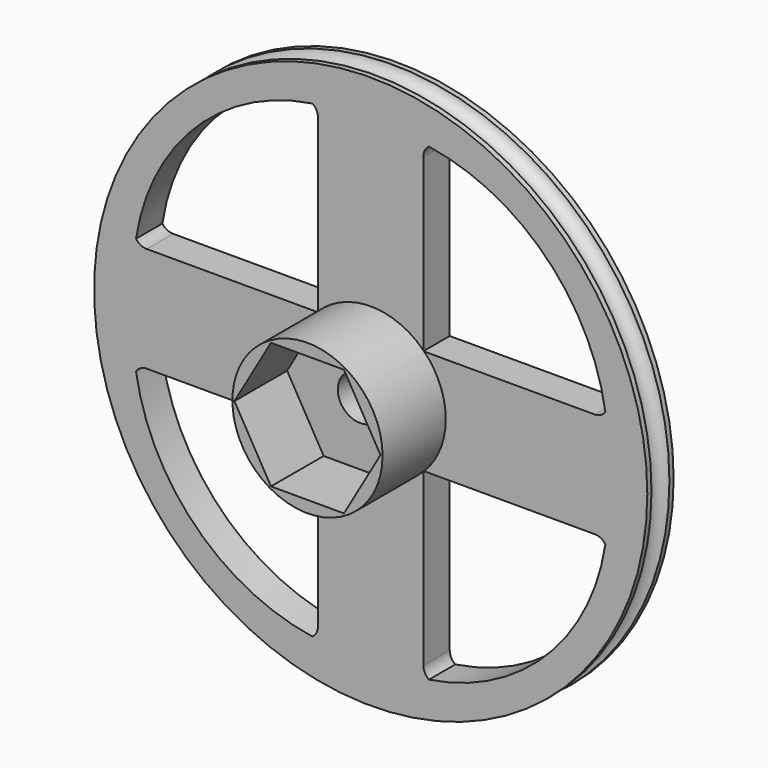
from build123d import *

# Parameters (mm, degrees)
F0_R     = 26.67
F1_DEPTH = 3.175
F3_DEPTH = 25.4
F4_R     = 7.239
F5_DEPTH = 7.62
F7_DEPTH = 6.35
F8_R     = 2.159
F9_DEPTH = 25.4


with BuildPart() as f1:
    # F0 (on Front) → F1 (new body)
    with BuildSketch(Plane.XZ):
        Circle(F0_R)
    extrude(amount=F1_DEPTH)

    # F2 (on face) → F3 (cut)
    with BuildSketch(Plane.XZ.offset(3.175)):
        with BuildLine():
            Line((-21.59, 5.08), (-5.08, 5.08))
            Line((-5.08, 5.08), (-5.08, 21.59))
            ThreePointArc((-5.08, 21.59), (-5.221742, 22.173039), (-5.61533, 22.625934))
            ThreePointArc((-5.61533, 22.625934), (-16.90841, 16.90841), (-22.625934, 5.61533))
            ThreePointArc((-22.625934, 5.61533), (-22.173039, 5.221742), (-21.59, 5.08))
        make_face()
        with BuildLine():
            ThreePointArc((-21.59, -5.08), (-22.173039, -5.221742), (-22.625934, -5.61533))
            ThreePointArc((-22.625934, -5.61533), (-16.90841, -16.90841), (-5.61533, -22.625934))
            ThreePointArc((-5.61533, -22.625934), (-5.221742, -22.173039), (-5.08, -21.59))
            Line((-5.08, -21.59), (-5.08, -5.08))
            Line((-5.08, -5.08), (-21.59, -5.08))
        make_face()
        with BuildLine():
            ThreePointArc((5.08, -21.59), (5.221742, -22.173039), (5.61533, -22.625934))
            ThreePointArc((5.61533, -22.625934), (16.90841, -16.90841), (22.625934, -5.61533))
            ThreePointArc((22.625934, -5.61533), (22.173039, -5.221742), (21.59, -5.08))
            Line((21.59, -5.08), (5.08, -5.08))
            Line((5.08, -5.08), (5.08, -21.59))
        make_face()
        with BuildLine():
            ThreePointArc((21.59, 5.08), (22.173039, 5.221742), (22.625934, 5.61533))
            ThreePointArc((22.625934, 5.61533), (16.90841, 16.90841), (5.61533, 22.625934))
            ThreePointArc((5.61533, 22.625934), (5.221742, 22.173039), (5.08, 21.59))
            Line((5.08, 21.59), (5.08, 5.08))
            Line((5.08, 5.08), (21.59, 5.08))
        make_face()
    extrude(amount=-F3_DEPTH, mode=Mode.SUBTRACT)

    # F4 (on face) → F5 (join)
    with BuildSketch(Plane.XZ.offset(3.175)):
        Circle(F4_R)
    extrude(amount=F5_DEPTH)

    # F6 (on face) → F7 (cut)
    with BuildSketch(Plane.XZ.offset(10.795)):
        Polygon((3.519527, -6.096), (7.039054, 0), (3.519527, 6.096), (-3.519527, 6.096), (-7.039054, 0), (-3.519527, -6.096), align=None)
    extrude(amount=-F7_DEPTH, mode=Mode.SUBTRACT)

    # F8 (on face) → F9 (cut)
    with BuildSketch(Plane.XZ.offset(4.445)):
        Circle(F8_R)
    extrude(amount=-F9_DEPTH, mode=Mode.SUBTRACT)

    # F10 (on Top) → F11 (revolve, cut)
    with BuildSketch(Plane.XY):
        with BuildLine():
            Line((26.67, -2.667), (26.67, -0.508))
            ThreePointArc((26.67, -0.508), (25.743874, -1.5875), (26.67, -2.667))
        make_face()
    revolve(axis=Axis((0, -1.5875, 0), (0, -1, 0)), mode=Mode.SUBTRACT)


solid = f1.part
